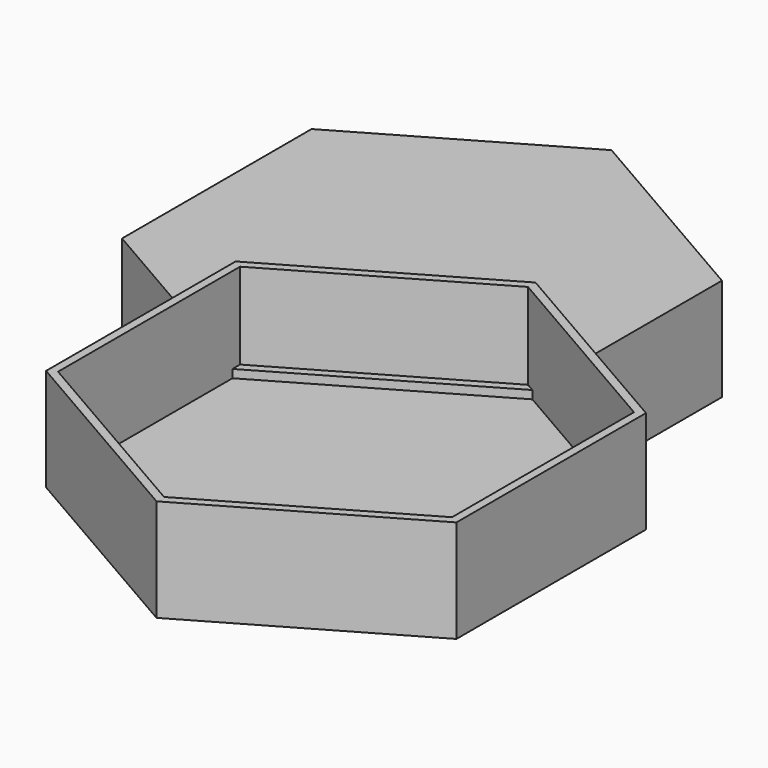
from build123d import *

# Parameters (mm, degrees)
F1_DEPTH = 2
F2_DEPTH = 25
F3_ANGLE = 180


with BuildPart() as f1:
    # F0 (on Top) → F1 (new body)
    with BuildSketch(Plane.XY):
        Polygon((-50, 28.8674865405), (-50, -28.8675134595), (0, -57.735026919), (50, -28.8675134595), (50, 28.8675134595), (-2.33125e-05, 57.7350403785), align=None)
        Polygon((0, -55.4256258422), (-48, -27.7128129211), (-48, 27.7128129211), (0, 55.4256258422), (48, 27.7128129211), (48, -27.7128129211), align=None, mode=Mode.SUBTRACT)
        Polygon((-48, 27.7128129211), (-48, -27.7128129211), (0, -55.4256258422), (48, -27.7128129211), (48, 27.7128129211), (0, 55.4256258422), align=None)
    extrude(amount=F1_DEPTH)

    # F0 (on Top) → F2 (join)
    with BuildSketch(Plane.XY):
        Polygon((-50, 28.8674865405), (-50, -28.8675134595), (0, -57.735026919), (50, -28.8675134595), (50, 28.8675134595), (-2.33125e-05, 57.7350403785), align=None)
        Polygon((0, -55.4256258422), (-48, -27.7128129211), (-48, 27.7128129211), (0, 55.4256258422), (48, 27.7128129211), (48, -27.7128129211), align=None, mode=Mode.SUBTRACT)
    extrude(amount=F2_DEPTH)


with BuildPart() as f3_1:
    # F3: copy of F1
    add(f1.part.rotate(Axis((-24, 41.5692193817, 2), (0.8660254038, 0.5, 0)), F3_ANGLE))


solid = Compound([f1.part, f3_1.part])
